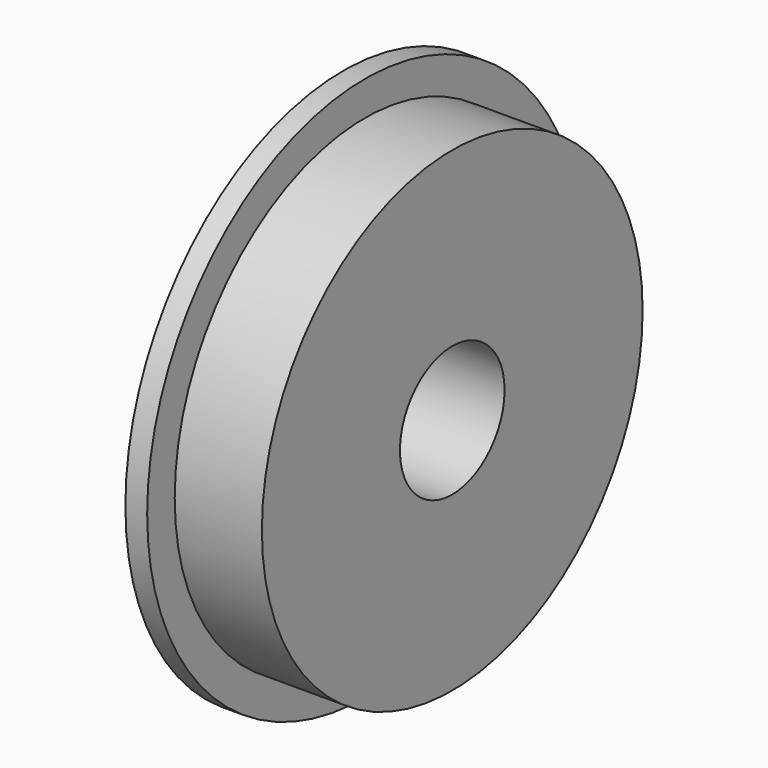
from build123d import *

# Parameters (mm, degrees)
F0_R      = 34.671
F0_R_2    = 9.525
F1_DEPTH  = 12.7
F2_R      = 39.6875
F2_R_2    = 34.671
F3_DEPTH  = 3.175
F1_FACE_R = 9.525
F4_DEPTH  = 3.175


with BuildPart() as f1:
    # F0 (on Right) → F1 (new body)
    with BuildSketch(Plane.YZ):
        Circle(F0_R)
        Circle(F0_R_2, mode=Mode.SUBTRACT)
    extrude(amount=F1_DEPTH)

    # F2 (on face) → F3 (join)
    with BuildSketch(Plane(origin=(0, 0, 0), x_dir=(0, -1, 0), z_dir=(-1, 0, 0))):
        Circle(F2_R)
        Circle(F2_R_2, mode=Mode.SUBTRACT)
    extrude(amount=F3_DEPTH)

    # F1_face (on face) → F4 (join)
    with BuildSketch(Plane(origin=(0, 0, 0), x_dir=(0, 1, 0), z_dir=(-1, 0, 0))):
        with BuildLine():
            ThreePointArc((-34.671, 0), (0, -34.671), (34.671, 0))
            ThreePointArc((34.671, 0), (0, 34.671), (-34.671, 0))
        make_face()
        Circle(F1_FACE_R, mode=Mode.SUBTRACT)
    extrude(amount=F4_DEPTH)


solid = f1.part
